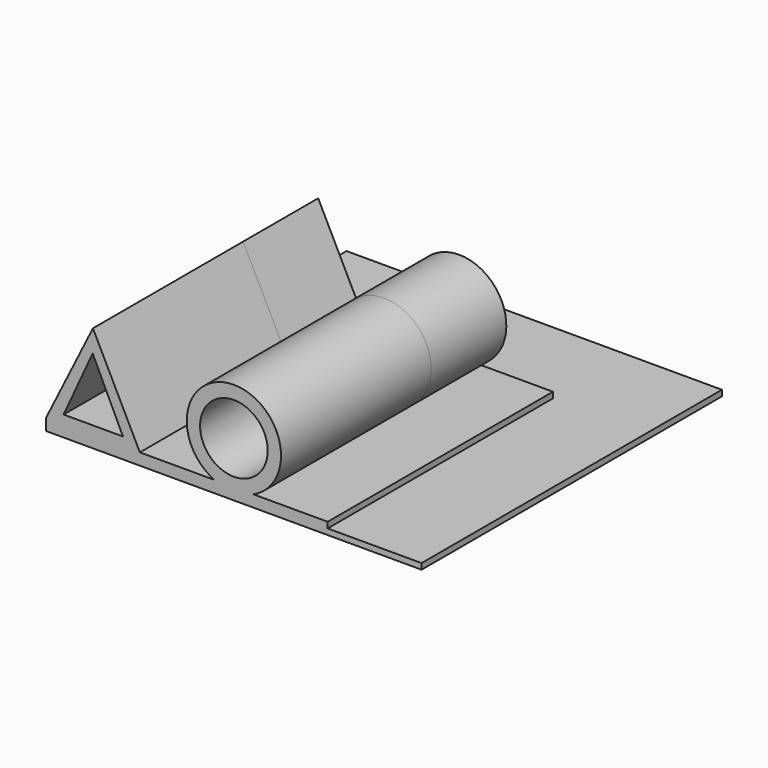
from build123d import *

# Parameters (mm, degrees)
F0_W      = 203.2
F0_H      = 203.2
F1_DEPTH  = 6.35
F2_W      = 228.6
F2_H      = 50.8
F3_DEPTH  = 3.175
F4_W      = 50.8
F4_H      = 152.4
F5_DEPTH  = 3.175
F7_DEPTH  = 101.6
F8_DEPTH  = 50.8
F10_DEPTH = 101.6
F11_R     = 25.527
F12_DEPTH = 101.6
F13_DEPTH = 50.8
F14_R     = 18.30514
F15_DEPTH = 203.2


with BuildPart() as f1:
    # F0 (on Top) → F1 (new body)
    with BuildSketch(Plane.XY):
        Rectangle(F0_W, F0_H)
    extrude(amount=F1_DEPTH)

    # F2 (on face) → F3 (cut)
    with BuildSketch(Plane.XY.offset(6.35)):
        with Locations((9.048829, 76.2)):
            Rectangle(F2_W, F2_H)
    extrude(amount=-F3_DEPTH, mode=Mode.SUBTRACT)

    # F4 (on face) → F5 (cut)
    with BuildSketch(Plane.XY.offset(6.35)):
        with Locations((76.2, -25.4)):
            Rectangle(F4_W, F4_H)
    extrude(amount=-F5_DEPTH, mode=Mode.SUBTRACT)

    # F6 (on Front) → F7 (join)
    with BuildSketch(Plane.XZ):
        Polygon((-76.256953, 57.218857), (-101.610899, 6.339633), (-50.831645, 6.311648), align=None)
    extrude(amount=F7_DEPTH)

    # F7_face (on face) → F8 (join)
    with BuildSketch(Plane(origin=(-76.23783, 0, 23.306285), x_dir=(1, 0, 0), z_dir=(0, 1, 0))):
        Polygon((25.38703, 16.956285), (-25.36217, 16.956285), (-25.36217, 16.966658), (-25.373068, 16.966652), (-0.019123, -33.912573), align=None)
    extrude(amount=F8_DEPTH)

    # F9 (on Front) → F10 (cut, symmetric)
    with BuildSketch(Plane.XZ):
        Polygon((-76.401271, 45.196354), (-92.128456, 10.943087), (-60.007684, 10.943087), align=None)
    extrude(amount=F10_DEPTH, both=True, mode=Mode.SUBTRACT)

    # F11 (on Front) → F12 (join)
    with BuildSketch(Plane.XZ):
        with Locations((0.035985, 29.595342)):
            Circle(F11_R)
    extrude(amount=F12_DEPTH)

    # F12_face (on face) → F13 (join)
    with BuildSketch(Plane(origin=(0.035985, 0, 29.983781), x_dir=(1, 0, 0), z_dir=(0, 1, 0))):
        with BuildLine():
            ThreePointArc((-10.549018, 23.633781), (0, -25.138562), (10.549018, 23.633781))
            Line((10.549018, 23.633781), (-10.549018, 23.633781))
        make_face()
    extrude(amount=F13_DEPTH)

    # F14 (on face) → F15 (cut)
    with BuildSketch(Plane.XZ.offset(101.6)):
        with Locations((0.035985, 29.595342)):
            Circle(F14_R)
    extrude(amount=-F15_DEPTH, mode=Mode.SUBTRACT)


solid = f1.part
